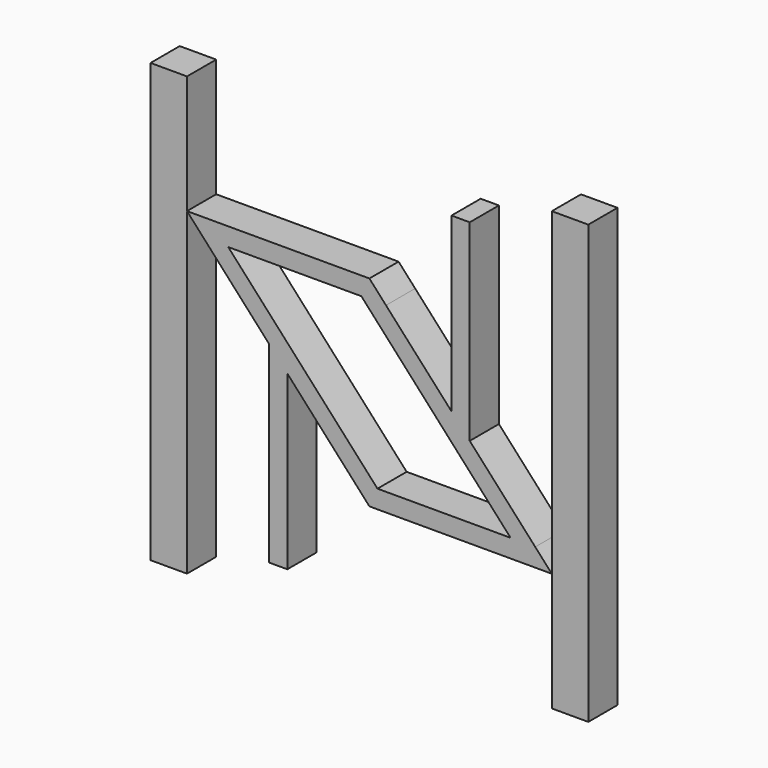
from build123d import *

# Parameters (mm, degrees)
F1_DEPTH = 4


with BuildPart() as f1:
    # F0 (on Front) → F1 (new body)
    with BuildSketch(Plane.XZ):
        Polygon((0, 11), (-20, 11), (-18.181818, 9), (-15.478897, 9), (-0.88474, 9), (1.818182, 9), align=None)
        Polygon((-15.478897, 9), (-18.181818, 9), (-11, 1.1), (-9, -1.1), (-1.818182, -9), (0.88474, -9), align=None)
        Polygon((9, 1.1), (1.818182, 9), (-0.88474, 9), (15.478897, -9), (18.181818, -9), (11, -1.1), align=None)
        Polygon((15.478897, -9), (0.88474, -9), (-1.818182, -9), (0, -11), (20, -11), (18.181818, -9), align=None)
        Polygon((11, 20), (9, 20), (9, 1.1), (11, -1.1), align=None)
        Polygon((-9, -1.1), (-11, 1.1), (-11, -20), (-9, -20), align=None)
        Polygon((-20, 9), (-20, 11), (-20, 20), (-20, 24), (-24, 24), (-24, -24), (-20, -24), (-20, -20), align=None)
        Polygon((24, 24), (20, 24), (20, 20), (20, -9), (20, -11), (20, -20), (20, -24), (24, -24), align=None)
    extrude(amount=F1_DEPTH)


solid = f1.part
